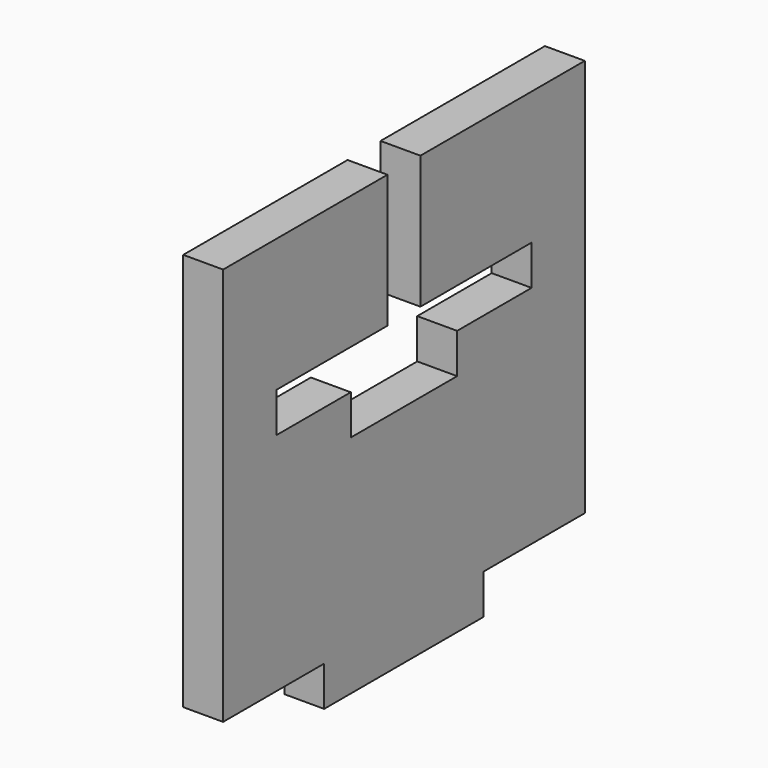
from build123d import *

# Parameters (mm, degrees)
F0_W     = 5
F0_H     = 3
F0_W_2   = 15
F1_DEPTH = 3


with BuildPart() as f1:
    # F0 (on Right) → F1 (new body)
    with BuildSketch(Plane.YZ):
        with Locations((-14.5, 9.975)):
            Rectangle(F0_W, F0_H)
        with Locations((14.5, 9.975)):
            Rectangle(F0_W, F0_H)
        with Locations((0, -9.975)):
            Rectangle(F0_W_2, F0_H)
        Polygon((7.5, -8.475), (17, -8.475), (17, 8.475), (12, 8.475), (5, 8.475), (5, 5.475), (-5, 5.475), (-5, 8.475), (-12, 8.475), (-17, 8.475), (-17, -8.475), (-7.5, -8.475), align=None)
        Polygon((-17, 21.475), (-17, 11.475), (-12, 11.475), (-1.55, 11.475), (-1.55, 21.475), align=None)
        Polygon((12, 11.475), (17, 11.475), (17, 21.475), (1.55, 21.475), (1.55, 11.475), align=None)
    extrude(amount=F1_DEPTH)


solid = f1.part
